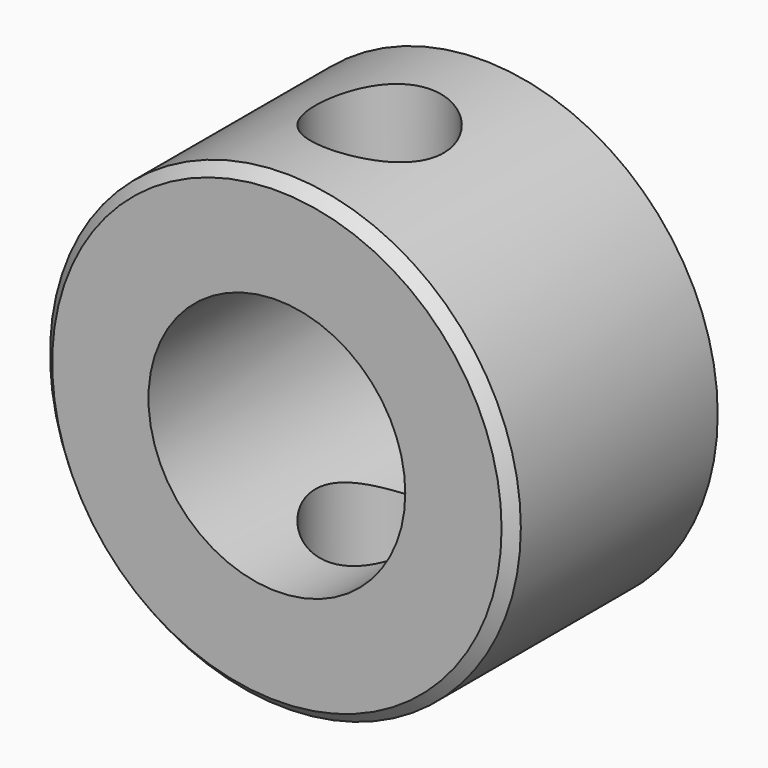
from build123d import *

# Parameters (mm, degrees)
F0_R          = 11
F0_R_2        = 6
F1_DEPTH      = 12
F2_SIZE       = 0.5
F3_R          = 3
F4_DEPTH      = 25
F4_DEPTH_BACK = 25


with BuildPart() as f1:
    # F0 (on Front) → F1 (new body)
    with BuildSketch(Plane.XZ):
        Circle(F0_R)
        Circle(F0_R_2, mode=Mode.SUBTRACT)
    extrude(amount=F1_DEPTH)

    # F2
    f2_edges = [f1.edges().sort_by_distance(p)[0] for p in [
        (-11, -12, 0),
    ]]
    chamfer(f2_edges, length=F2_SIZE)

    # F3 (on Top) → F4 (cut, two sides)
    with BuildSketch(Plane.XY) as f4_sk:
        with Locations((0, -6)):
            Circle(F3_R)
    extrude(amount=F4_DEPTH, mode=Mode.SUBTRACT)
    extrude(f4_sk.sketch, amount=-F4_DEPTH_BACK, mode=Mode.SUBTRACT)


solid = f1.part
